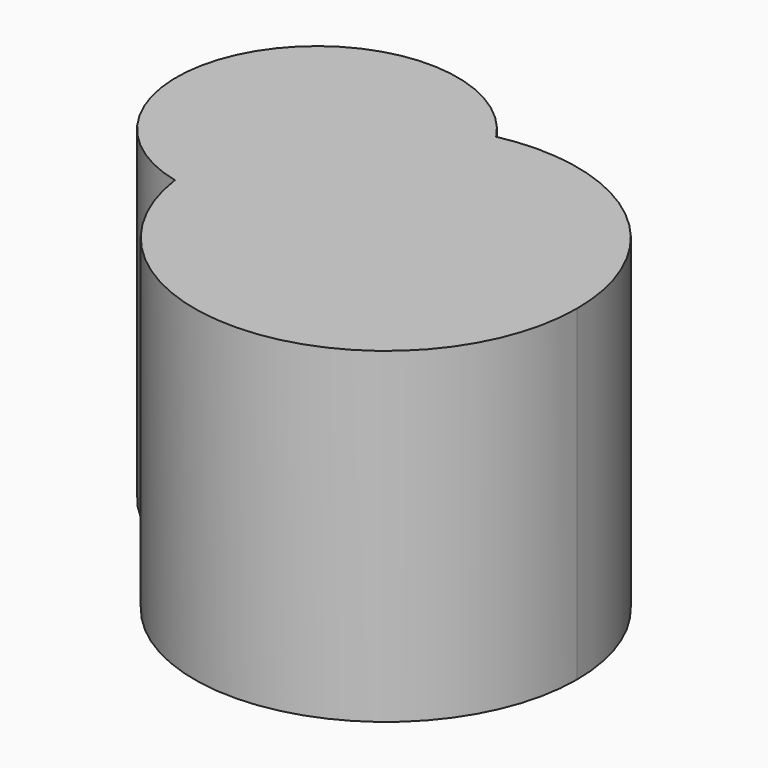
from build123d import *

# Parameters (mm, degrees)
F1_DEPTH = 50.292


with BuildPart() as f1:
    # F0 (on Top) → F1 (new body)
    with BuildSketch(Plane.XY):
        with BuildLine():
            ThreePointArc((-29.1708771538, -5.511506322), (2.0663990117, -30.7770828661), (29.4607546485, -1.3888869435))
            ThreePointArc((29.4607546485, -1.3888869435), (18.5651186922, 21.4862618517), (-6.0626009916, 27.4413217564))
            ThreePointArc((-6.0626009916, 27.4413217564), (-3.399314723, 21.7463062061), (-2.4858402805, 15.5260280523))
            ThreePointArc((-2.4858402805, 15.5260280523), (-10.7265026816, -1.4641826989), (-29.1708771538, -5.511506322))
        make_face()
        with BuildLine():
            ThreePointArc((-2.4858402805, 15.5260280523), (-3.399314723, 21.7463062061), (-6.0626009916, 27.4413217564))
            ThreePointArc((-6.0626009916, 27.4413217564), (-24.1209808081, 15.5260280523), (-29.1708771538, -5.511506322))
            ThreePointArc((-29.1708771538, -5.511506322), (-10.7265026816, -1.4641826989), (-2.4858402805, 15.5260280523))
        make_face()
        with BuildLine():
            ThreePointArc((-29.1708771538, -5.511506322), (-24.1209808081, 15.5260280523), (-6.0626009916, 27.4413217564))
            ThreePointArc((-6.0626009916, 27.4413217564), (-41.8347432584, 27.947860667), (-29.1708771538, -5.511506322))
        make_face()
    extrude(amount=F1_DEPTH)


solid = f1.part
